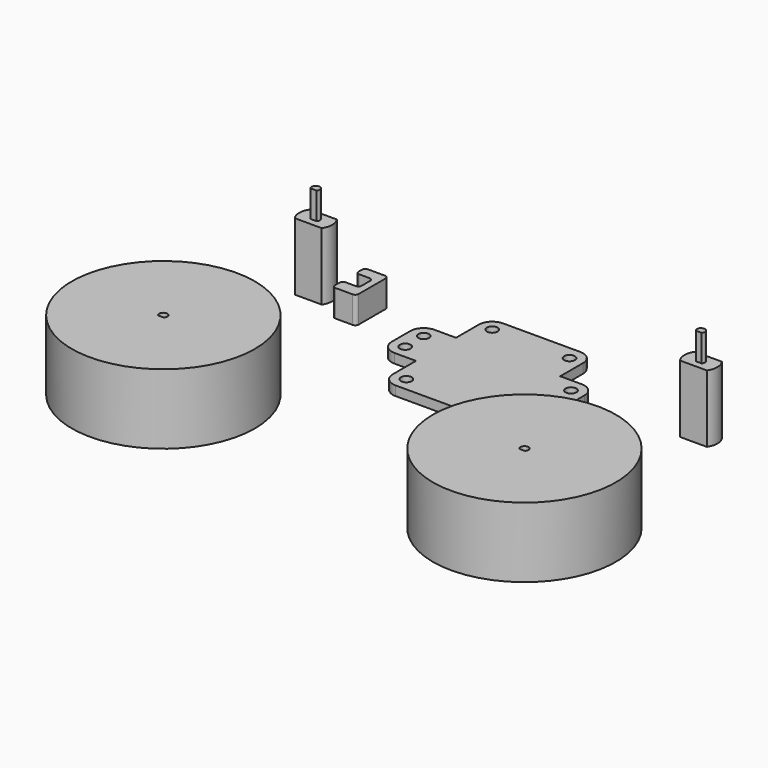
from build123d import *

# Parameters (mm, degrees)
F0_R      = 34
F1_DEPTH  = 26
F2_DEPTH  = 25
F4_DEPTH  = 25
F6_DEPTH  = 10
F9_DEPTH  = 10
F10_R     = 1.207107
F11_R     = 2
F12_DEPTH = 3.5


with BuildPart() as f1:
    # F0 (on Top) → F1 (new body)
    with BuildSketch(Plane.XY):
        with Locations((-67.045674, -31.968914)):
            Circle(F0_R)
        with BuildLine():
            ThreePointArc((-68.069792, -33.064898), (-67.045674, -30.468914), (-66.021555, -33.064898))
            Line((-66.021555, -33.064898), (-68.069792, -33.064898))
        make_face(mode=Mode.SUBTRACT)
    extrude(amount=F1_DEPTH)

    # F0 (on Top) → F2 (join)
    with BuildSketch(Plane.XY):
        with Locations((-67.045674, -31.968914)):
            Circle(F0_R)
        with BuildLine():
            ThreePointArc((-68.069792, -33.064898), (-67.045674, -30.468914), (-66.021555, -33.064898))
            Line((-66.021555, -33.064898), (-68.069792, -33.064898))
        make_face(mode=Mode.SUBTRACT)
    extrude(amount=F2_DEPTH)


with BuildPart() as f4:
    # F3 (on Top) → F4 (new body)
    with BuildSketch(Plane.XY):
        with BuildLine():
            Line((-66.514805, 47.884089), (-76.514805, 47.884089))
            ThreePointArc((-76.514805, 47.884089), (-77.618305, 44.383701), (-76.514805, 40.883314))
            Line((-76.514805, 40.883314), (-66.514805, 40.883314))
            ThreePointArc((-66.514805, 40.883314), (-65.411305, 44.383701), (-66.514805, 47.884089))
        make_face()
    extrude(amount=F4_DEPTH)

    # F5 (on face) → F6 (join)
    with BuildSketch(Plane.XY.offset(25)):
        with BuildLine():
            Line((-72.622018, 43.371733), (-70.407592, 43.371733))
            ThreePointArc((-70.407592, 43.371733), (-71.514805, 45.883701), (-72.622018, 43.371733))
        make_face()
    extrude(amount=F6_DEPTH)


with BuildPart() as f7_1:
    # F7: instance of F4
    add(f4.part.mirror(Plane.YZ))


with BuildPart() as f7_2:
    # F7: instance of F1
    add(f1.part.mirror(Plane.YZ))


with BuildPart() as f9:
    # F8 (on Top) → F9 (new body)
    with BuildSketch(Plane.XY):
        Polygon((-52.858956, 41.141208), (-59.112478, 41.141208), (-59.112478, 36.534205), (-50.299078, 36.534205), (-50.299078, 51.557045), (-59.112478, 51.557045), (-59.112478, 47.550954), (-52.858956, 47.550954), align=None)
    extrude(amount=F9_DEPTH)

    # F10
    f10_edges = [f9.edges().sort_by_distance(p)[0] for p in [
        (-59.112478, 47.550954, 5),
        (-59.112478, 41.141208, 5),
        (-52.858956, 47.550954, 5),
        (-52.858956, 41.141208, 5),
        (-50.299078, 51.557045, 5),
        (-59.112478, 51.557045, 5),
        (-50.299078, 36.534205, 5),
        (-59.112478, 36.534205, 5),
    ]]
    fillet(f10_edges, radius=F10_R)


with BuildPart() as f12:
    # F11 (on Top) → F12 (new body)
    with BuildSketch(Plane.XY):
        with BuildLine():
            ThreePointArc((-18.892364, 14.397767), (-17.427898, 10.862233), (-13.892364, 9.397767))
            Line((-13.892364, 9.397767), (14.805313, 9.397767))
            ThreePointArc((14.805313, 9.397767), (18.340847, 10.862233), (19.805313, 14.397767))
            Line((19.805313, 14.397767), (19.805313, 25.118697))
            Line((19.805313, 25.118697), (27.805313, 25.118697))
            ThreePointArc((27.805313, 25.118697), (31.340847, 26.583163), (32.805313, 30.118697))
            Line((32.805313, 30.118697), (32.805313, 38.711721))
            ThreePointArc((32.805313, 38.711721), (31.340847, 42.247255), (27.805313, 43.711721))
            Line((27.805313, 43.711721), (19.805313, 43.711721))
            Line((19.805313, 43.711721), (19.805313, 54.28149))
            ThreePointArc((19.805313, 54.28149), (18.340847, 57.817024), (14.805313, 59.28149))
            Line((14.805313, 59.28149), (-13.892364, 59.28149))
            ThreePointArc((-13.892364, 59.28149), (-17.427898, 57.817024), (-18.892364, 54.28149))
            Line((-18.892364, 54.28149), (-18.892364, 43.711721))
            Line((-18.892364, 43.711721), (-26.892364, 43.711721))
            ThreePointArc((-26.892364, 43.711721), (-30.427898, 42.247255), (-31.892364, 38.711721))
            Line((-31.892364, 38.711721), (-31.892364, 30.118697))
            ThreePointArc((-31.892364, 30.118697), (-30.427898, 26.583163), (-26.892364, 25.118697))
            Line((-26.892364, 25.118697), (-18.892364, 25.118697))
            Line((-18.892364, 25.118697), (-18.892364, 14.397767))
        make_face()
        with Locations((-13.892364, 14.397767)):
            Circle(F11_R, mode=Mode.SUBTRACT)
        with Locations((-26.892364, 30.118697)):
            Circle(F11_R, mode=Mode.SUBTRACT)
        with Locations((14.805313, 14.397767)):
            Circle(F11_R, mode=Mode.SUBTRACT)
        with Locations((27.805313, 30.118697)):
            Circle(F11_R, mode=Mode.SUBTRACT)
        with Locations((-26.892364, 38.711721)):
            Circle(F11_R, mode=Mode.SUBTRACT)
        with Locations((-13.892364, 54.28149)):
            Circle(F11_R, mode=Mode.SUBTRACT)
        with Locations((27.805313, 38.711721)):
            Circle(F11_R, mode=Mode.SUBTRACT)
        with Locations((14.805313, 54.28149)):
            Circle(F11_R, mode=Mode.SUBTRACT)
    extrude(amount=F12_DEPTH)


solid = Compound([f1.part, f4.part, f7_1.part, f7_2.part, f9.part, f12.part])
